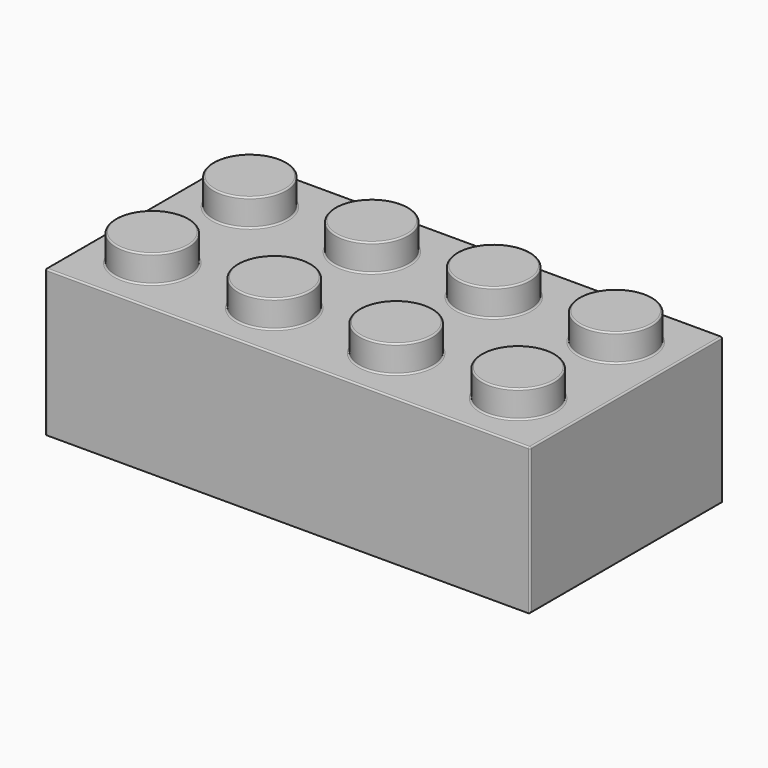
from build123d import *

# Parameters (mm, degrees)
F0_W     = 31.8
F0_H     = 15.8
F1_DEPTH = 9.6
F2_R     = 2.4
F3_DEPTH = 1.8
F4_W     = 29.4
F4_H     = 13.4
F5_DEPTH = 8.4
F5_TAPER = 1.5
F6_R     = 1.3
F7_DEPTH = 1.7
F8_R     = 3.25
F8_R_2   = 2.4
F9_DEPTH = 8.4
F9_TAPER = 1
F10_R    = 0.1


with BuildPart() as f1:
    # F0 (on Top) → F1 (new body)
    with BuildSketch(Plane.XY):
        Rectangle(F0_W, F0_H)
    extrude(amount=F1_DEPTH)

    # F2 (on face) → F3 (join)
    with BuildSketch(Plane.XY.offset(9.6)):
        with Locations((-12, 4)):
            Circle(F2_R)
        with Locations((-12, -4)):
            Circle(F2_R)
        with Locations((-4, 4)):
            Circle(F2_R)
        with Locations((-4, -4)):
            Circle(F2_R)
        with Locations((4, 4)):
            Circle(F2_R)
        with Locations((4, -4)):
            Circle(F2_R)
        with Locations((12, 4)):
            Circle(F2_R)
        with Locations((12, -4)):
            Circle(F2_R)
    extrude(amount=F3_DEPTH)

    # F4 (on face) → F5 (cut)
    with BuildSketch(Plane.XY):
        Rectangle(F4_W, F4_H)
    extrude(amount=F5_DEPTH, taper=F5_TAPER, mode=Mode.SUBTRACT)

    # F6 (on face) → F7 (cut)
    with BuildSketch(Plane(origin=(0, 0, 8.4), x_dir=(1, 0, 0), z_dir=(0, 0, -1))):
        with Locations((-12, 4)):
            Circle(F6_R)
        with Locations((-4, 4)):
            Circle(F6_R)
        with Locations((4, 4)):
            Circle(F6_R)
        with Locations((12, 4)):
            Circle(F6_R)
        with Locations((-12, -4)):
            Circle(F6_R)
        with Locations((-4, -4)):
            Circle(F6_R)
        with Locations((4, -4)):
            Circle(F6_R)
        with Locations((12, -4)):
            Circle(F6_R)
    extrude(amount=-F7_DEPTH, mode=Mode.SUBTRACT)

    # F8 (on face) → F9 (join, through all)
    with BuildSketch(Plane(origin=(0, 0, 8.4), x_dir=(1, 0, 0), z_dir=(0, 0, -1))):
        Circle(F8_R)
        Circle(F8_R_2, mode=Mode.SUBTRACT)
        with Locations((8, 0)):
            Circle(F8_R)
        with Locations((8, 0)):
            Circle(F8_R_2, mode=Mode.SUBTRACT)
        with Locations((-8, 0)):
            Circle(F8_R)
        with Locations((-8, 0)):
            Circle(F8_R_2, mode=Mode.SUBTRACT)
    extrude(amount=F9_DEPTH, taper=F9_TAPER)

    # F10
    f10_edges = [f1.edges().sort_by_distance(p)[0] for p in [
        (9.6, -4, 11.4),
        (1.6, -4, 11.4),
        (-6.4, -4, 11.4),
        (-14.4, -4, 11.4),
        (-14.4, 4, 11.4),
        (-6.4, 4, 11.4),
        (1.6, 4, 11.4),
        (9.6, 4, 11.4),
        (-14.4, 4, 9.6),
        (-14.4, -4, 9.6),
        (-6.4, -4, 9.6),
        (-6.4, 4, 9.6),
        (1.6, 4, 9.6),
        (1.6, -4, 9.6),
        (9.6, 4, 9.6),
        (9.6, -4, 9.6),
        (15.9, 0, 9.6),
        (15.9, -7.9, 4.8),
        (15.9, 7.9, 4.8),
        (15.9, 0, 0),
        (0, 7.9, 9.6),
        (-15.9, 7.9, 4.8),
        (-15.9, -7.9, 4.8),
        (-15.9, 0, 9.6),
        (0, -7.9, 9.6),
    ]]
    fillet(f10_edges, radius=F10_R)


solid = f1.part
